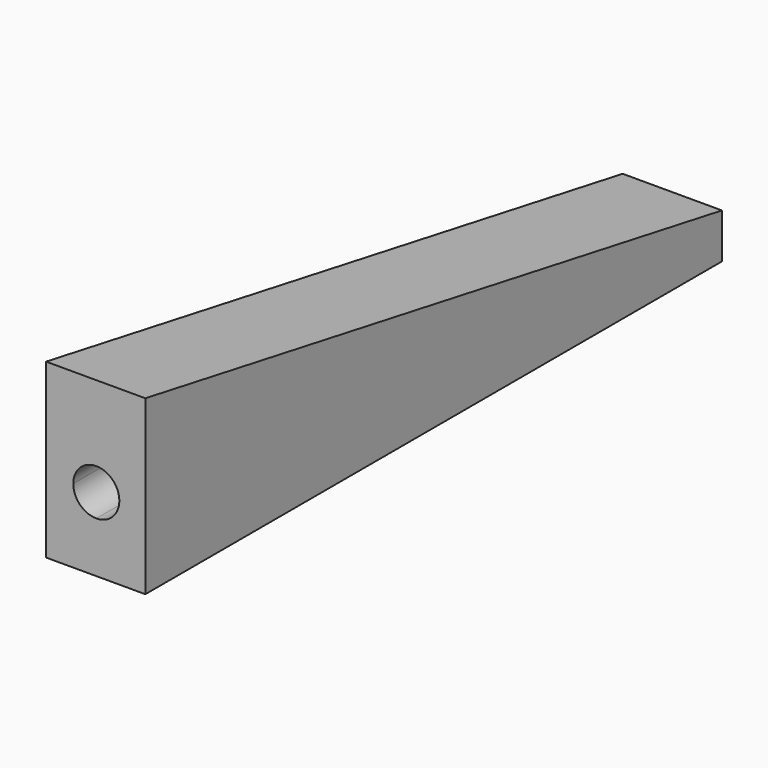
from build123d import *

# Parameters (mm, degrees)
F0_W     = 42
F0_H     = 73
F1_DEPTH = 305
F3_DEPTH = 42
F5_DEPTH = 53


with BuildPart() as f1:
    # F0 (on Front) → F1 (new body)
    with BuildSketch(Plane.XZ):
        with Locations((21, 36.5)):
            Rectangle(F0_W, F0_H)
    extrude(amount=-F1_DEPTH)

    # F2 (on face) → F3 (cut)
    with BuildSketch(Plane.YZ.offset(42)):
        Polygon((0, 73), (305, 19), (305, 73), align=None)
    extrude(amount=-F3_DEPTH, mode=Mode.SUBTRACT)

    # F4 (on face) → F5 (cut)
    with BuildSketch(Plane.XZ):
        with BuildLine():
            ThreePointArc((31, 31.2498826658), (31.0000000005, 31.2499413329), (31.0000000007, 31.25))
            ThreePointArc((31.0000000007, 31.25), (28.1442994854, 38.1442827484), (21.2500236693, 41))
            ThreePointArc((21.2500236693, 41), (14.3557172523, 38.1442994847), (11.5000000007, 31.25))
            ThreePointArc((11.5000000007, 31.25), (14.3557088841, 24.3557088834), (21.2500000007, 21.5))
            ThreePointArc((21.2500000007, 21.5), (28.1442496332, 24.3556673997), (31, 31.2498826658))
        make_face()
    extrude(amount=-F5_DEPTH, mode=Mode.SUBTRACT)


solid = f1.part
